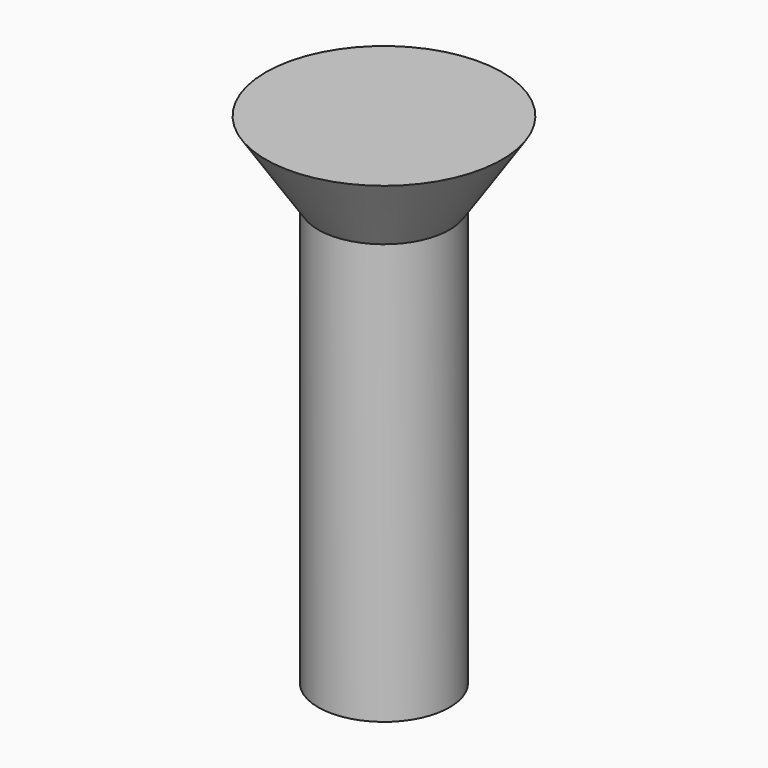
from build123d import *

# Parameters (mm, degrees)
CYLINDER011_R                   = 2.5
CYLINDER011_DEPTH               = 16
FUSION001018017_PLACEMENT_ANGLE = 180


with BuildPart() as cone003:
    # Cone003 → Cone003 (revolve)
    with BuildSketch(Plane(origin=(0, 0, -3), x_dir=(1, 0, 0), z_dir=(0, -1, 0))):
        Polygon((0, 0), (4.5, 0), (2.5, 3), (0, 3), align=None)
    revolve(axis=Axis((0, 0, -3), (0, 0, 1)))


with BuildPart() as obj1:
    # Cylinder011 → Cylinder011 (new body)
    with BuildSketch(Plane.XY):
        Circle(CYLINDER011_R)
    extrude(amount=CYLINDER011_DEPTH)

    # Fusion001018017: union Cone003
    add(cone003.part)


with BuildPart() as obj1_1:
    # Fusion001018017 placement: moved
    add(obj1.part.moved(Location((45, 15, 21))).rotate(Axis((45, 15, 21), (0, 1, 0)), FUSION001018017_PLACEMENT_ANGLE))


with BuildPart() as obj1_2:
    # Clone011 placement: moved
    add(obj1_1.part.moved(Location((25, 0, 0))))


with BuildPart() as obj1_3:
    # Clone025 placement: moved
    add(obj1_2.part.moved(Location((270, 0, 0))))


solid = obj1_3.part
